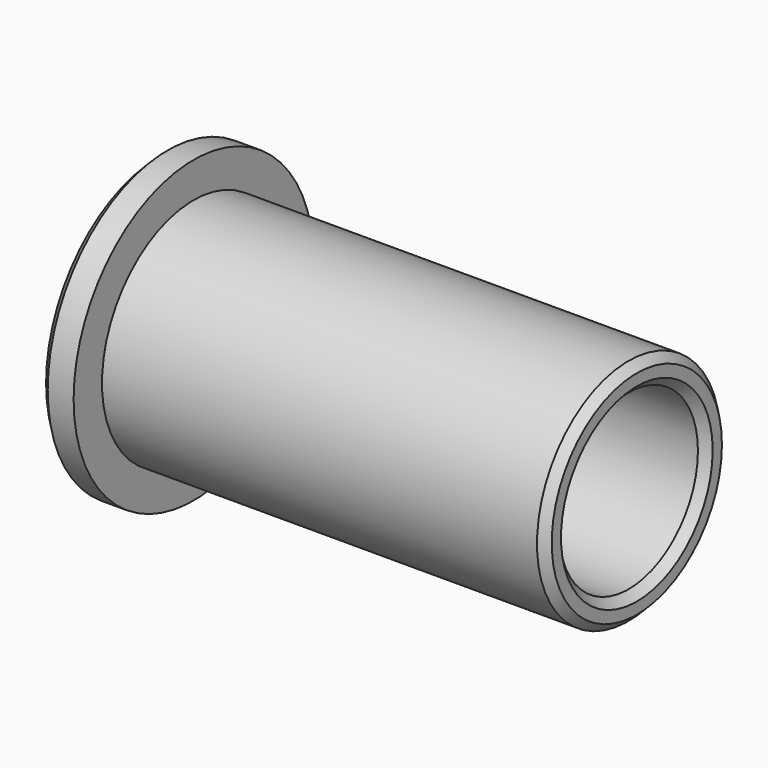
from build123d import *

# Parameters (mm, degrees)
F0_R     = 11
F0_R_2   = 8.4
F1_DEPTH = 2.5
F0_R_3   = 6.35
F2_DEPTH = 35
F3_SIZE  = 0.6
F4_SIZE  = 1


with BuildPart() as f1:
    # F0 (on Right) → F1 (new body)
    with BuildSketch(Plane.YZ):
        Circle(F0_R)
        Circle(F0_R_2, mode=Mode.SUBTRACT)
    extrude(amount=F1_DEPTH)

    # F0 (on Right) → F2 (join)
    with BuildSketch(Plane.YZ):
        Circle(F0_R_2)
        Circle(F0_R_3, mode=Mode.SUBTRACT)
    extrude(amount=F2_DEPTH)

    # F3
    f3_edges = [f1.edges().sort_by_distance(p)[0] for p in [
        (35, -6.35, 0),
        (35, -8.4, 0),
        (0, -11, 0),
    ]]
    chamfer(f3_edges, length=F3_SIZE)

    # F4
    f4_edges = [f1.edges().sort_by_distance(p)[0] for p in [
        (0, -6.35, 0),
    ]]
    chamfer(f4_edges, length=F4_SIZE)


solid = f1.part
